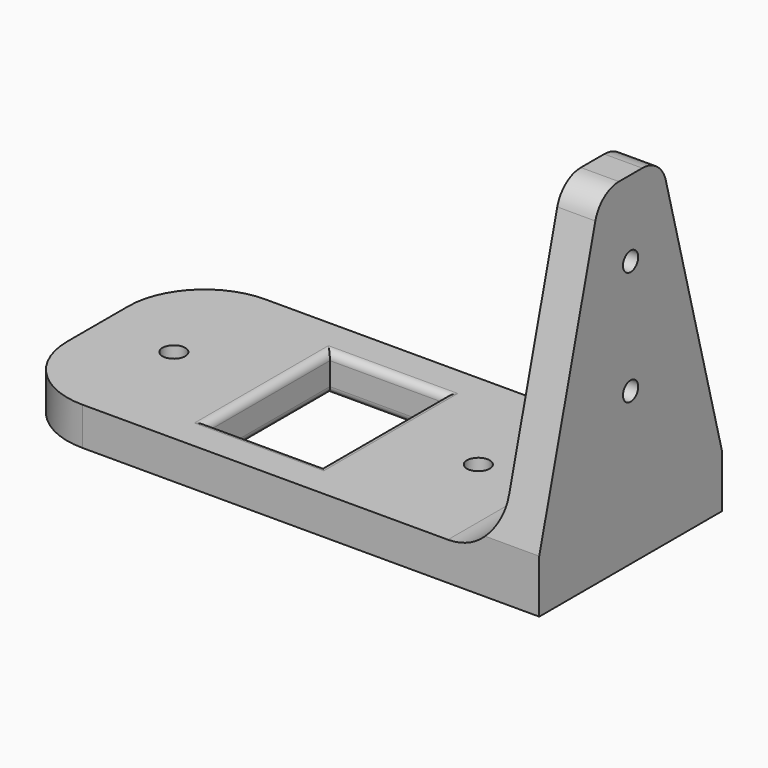
from build123d import *

# Parameters (mm, degrees)
SKETCH_W      = 70
SKETCH_H      = 30
SKETCH_R      = 1.5
SKETCH_W_2    = 15
SKETCH_H_2    = 20
PAD_DEPTH     = 5
FILLET_R      = 10
FILLET001_R   = 1
SKETCH001_W   = 5
SKETCH001_H   = 30
PAD001_DEPTH  = 40
CHAMFER_SIZE2 = 38
CHAMFER_SIZE  = 10
FILLET002_R   = 7
SKETCH002_R   = 1.25
POCKET_DEPTH  = 70.001
FILLET003_R   = 4


with BuildPart() as part:
    # Sketch → Pad (new body)
    with BuildSketch(Plane.XY):
        with Locations((25, 0)):
            Rectangle(SKETCH_W, SKETCH_H)
        Circle(SKETCH_R, mode=Mode.SUBTRACT)
        with Locations((40, 0)):
            Circle(SKETCH_R, mode=Mode.SUBTRACT)
        with Locations((20, 0)):
            Rectangle(SKETCH_W_2, SKETCH_H_2, mode=Mode.SUBTRACT)
    extrude(amount=PAD_DEPTH)

    # Fillet
    fillet_edges = [part.edges().sort_by_distance(p)[0] for p in [
        (-10, 15, 2.5),
        (-10, -15, 2.5),
    ]]
    fillet(fillet_edges, radius=FILLET_R)

    # Fillet001
    fillet001_edges = [part.edges().sort_by_distance(p)[0] for p in [
        (12.5, 0, 5),
        (12.5, 0, 0),
        (20, 10, 0),
        (20, 10, 5),
        (27.5, 0, 5),
        (20, -10, 5),
        (27.5, 0, 0),
        (20, -10, 0),
    ]]
    fillet(fillet001_edges, radius=FILLET001_R)

    # Sketch001 (on Face18 of Fillet001) → Pad001 (join)
    with BuildSketch(Plane.XY.offset(5)):
        with Locations((57.5, 0)):
            Rectangle(SKETCH001_W, SKETCH001_H)
    extrude(amount=PAD001_DEPTH)

    # Chamfer
    chamfer_edges = [part.edges().sort_by_distance(p)[0] for p in [
        (57.5, -15, 45),
        (57.5, 15, 45),
    ]]
    chamfer_side = part.faces().sort_by_distance((57.5, 0, 45))[0]
    chamfer(chamfer_edges, length=CHAMFER_SIZE, length2=CHAMFER_SIZE2, reference=chamfer_side)

    # Fillet002
    fillet002_edges = [part.edges().sort_by_distance(p)[0] for p in [
        (55, 0, 5),
    ]]
    fillet(fillet002_edges, radius=FILLET002_R)

    # Sketch002 (on Face7 of Fillet002) → Pocket (cut, through all)
    with BuildSketch(Plane.YZ.offset(60)):
        with Locations((0, 35)):
            Circle(SKETCH002_R)
        with Locations((0, 20)):
            Circle(SKETCH002_R)
    extrude(amount=-POCKET_DEPTH, mode=Mode.SUBTRACT)

    # Fillet003
    fillet003_edges = [part.edges().sort_by_distance(p)[0] for p in [
        (57.5, 5, 45),
        (57.5, -5, 45),
    ]]
    fillet(fillet003_edges, radius=FILLET003_R)


solid = part.part
